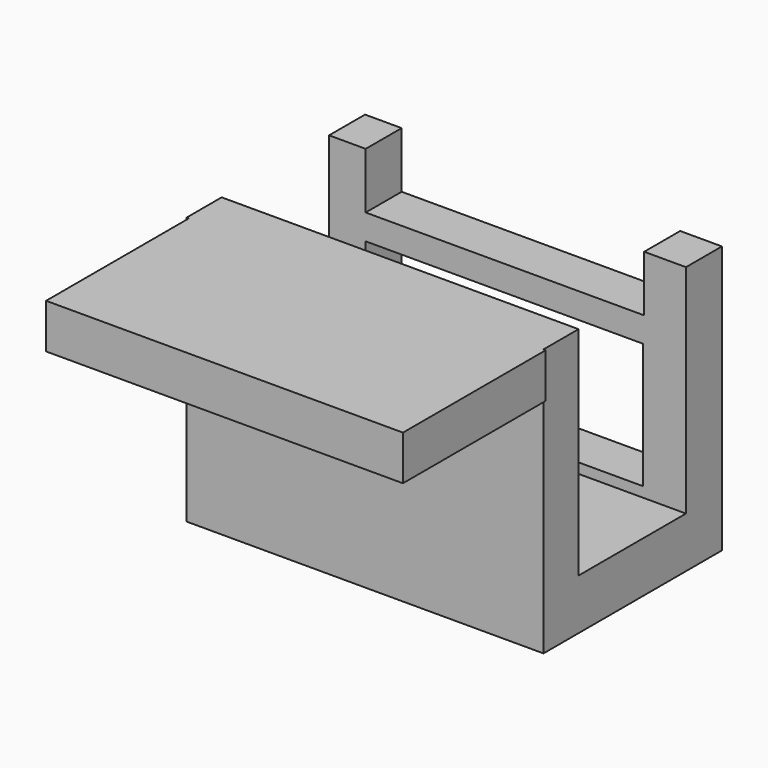
from build123d import *

# Parameters (mm, degrees)
F1_W          = 80
F1_H          = 60
F2_DEPTH      = 50
F0_W          = 80
F0_H          = 40
F3_DEPTH      = 10
F4_W          = 30.096792616
F4_H          = 78.1024228781
F5_DEPTH      = 50
F5_DEPTH_BACK = 50
F7_W          = 62.432192266
F7_H          = 30.8429924771
F7_W_2        = 62.183458358
F7_H_2        = 28.1069204211
F8_DEPTH      = 25


with BuildPart() as f2:
    # F1 (on Front) → F2 (new body)
    with BuildSketch(Plane.XZ):
        with Locations((-0.1705093682, -30)):
            Rectangle(F1_W, F1_H)
    extrude(amount=-F2_DEPTH)

    # F0 (on Top) → F3 (join)
    with BuildSketch(Plane.XY):
        with Locations((0.3269584477, -20)):
            Rectangle(F0_W, F0_H)
    extrude(amount=-F3_DEPTH)

    # F4 (on Right) → F5 (cut, two sides)
    with BuildSketch(Plane.YZ) as f5_sk:
        with Locations((24.8733828776, -9.576250799)):
            Rectangle(F4_W, F4_H)
    extrude(amount=-F5_DEPTH, mode=Mode.SUBTRACT)
    extrude(f5_sk.sketch, amount=F5_DEPTH_BACK, mode=Mode.SUBTRACT)

    # F7 (on offset) → F8 (cut)
    with BuildSketch(Plane.XZ.offset(-50)):
        with Locations((-0.7462017238, 2.8604404069)):
            Rectangle(F7_W, F7_H)
        with Locations((-0.8705686778, -32.300055027)):
            Rectangle(F7_W_2, F7_H_2)
    extrude(amount=F8_DEPTH, mode=Mode.SUBTRACT)


solid = f2.part
